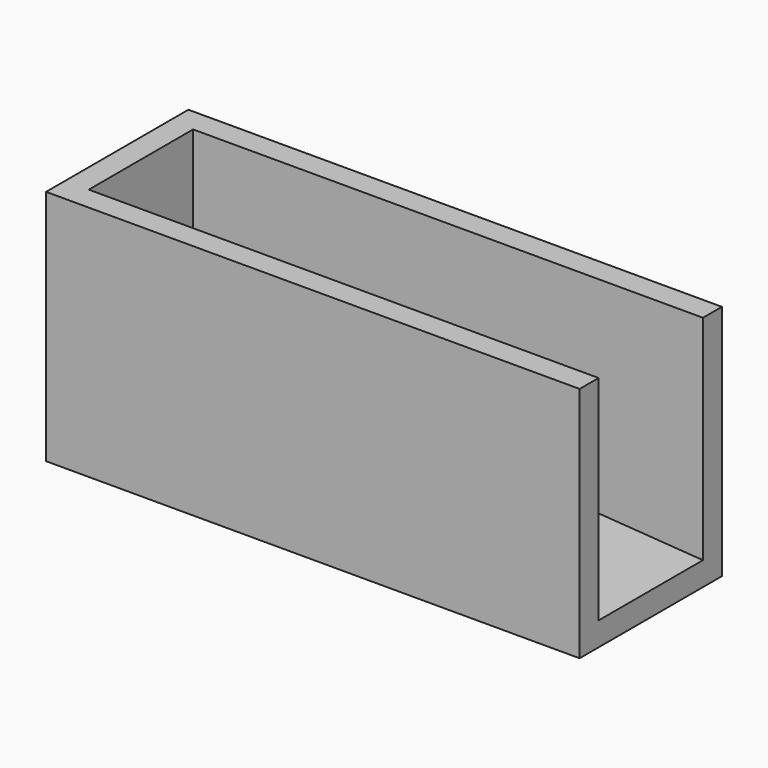
from build123d import *

# Parameters (mm, degrees)
F0_W     = 45
F0_H     = 15
F1_DEPTH = 20
F2_W     = 43
F2_H     = 11
F3_DEPTH = 15
F5_START = -2
F5_DEPTH = 11


with BuildPart() as f1:
    # F0 (on Top) → F1 (new body)
    with BuildSketch(Plane.XY):
        Rectangle(F0_W, F0_H)
    extrude(amount=F1_DEPTH)

    # F2 (on face) → F3 (cut)
    with BuildSketch(Plane.XY.offset(20)):
        with Locations((1, 0)):
            Rectangle(F2_W, F2_H)
    extrude(amount=-F3_DEPTH, mode=Mode.SUBTRACT)

    # F4 (on face) → F5 (cut)
    with BuildSketch(Plane.XZ.offset(7.5).offset(F5_START)):
        Polygon((22.5, 5), (-20.5, 5), (22.5, 2), align=None)
    extrude(amount=-F5_DEPTH, mode=Mode.SUBTRACT)


solid = f1.part
